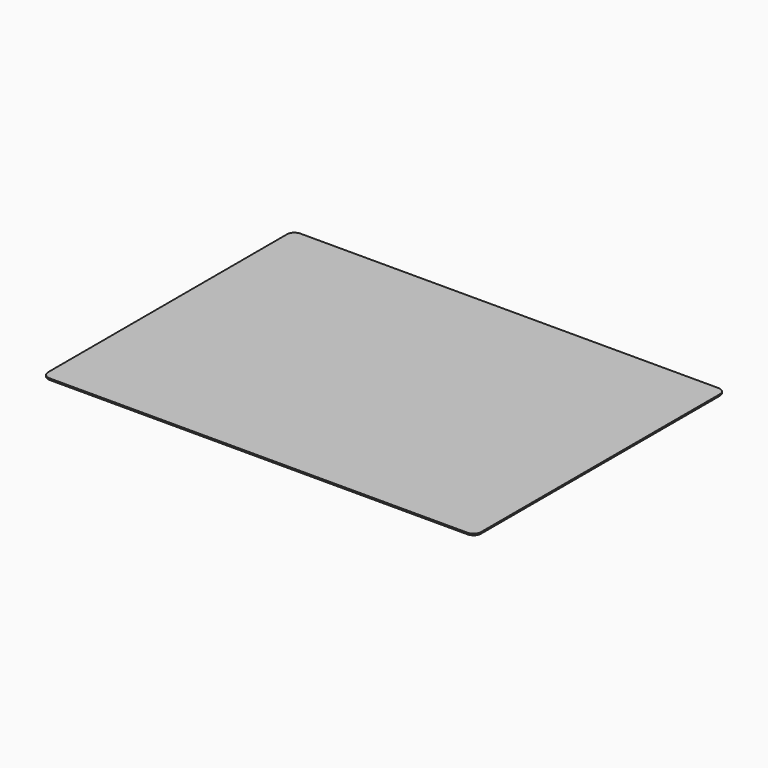
from build123d import *

# Parameters (mm, degrees)
SKETCH_W    = 290
SKETCH_H    = 210
PAD_DEPTH   = 1
FILLET_R    = 5
FILLET001_R = 5
FILLET002_R = 5
FILLET003_R = 5


with BuildPart() as part:
    # Sketch → Pad (new body)
    with BuildSketch(Plane.XY):
        with Locations((145, -105)):
            Rectangle(SKETCH_W, SKETCH_H)
    extrude(amount=PAD_DEPTH)

    # Fillet
    fillet_edges = [part.edges().sort_by_distance(p)[0] for p in [
        (290, -210, 0.5),
    ]]
    fillet(fillet_edges, radius=FILLET_R)

    # Fillet001
    fillet001_edges = [part.edges().sort_by_distance(p)[0] for p in [
        (0, -210, 0.5),
    ]]
    fillet(fillet001_edges, radius=FILLET001_R)

    # Fillet002
    fillet002_edges = [part.edges().sort_by_distance(p)[0] for p in [
        (0, 0, 0.5),
    ]]
    fillet(fillet002_edges, radius=FILLET002_R)

    # Fillet003
    fillet003_edges = [part.edges().sort_by_distance(p)[0] for p in [
        (290, 0, 0.5),
    ]]
    fillet(fillet003_edges, radius=FILLET003_R)


solid = part.part
